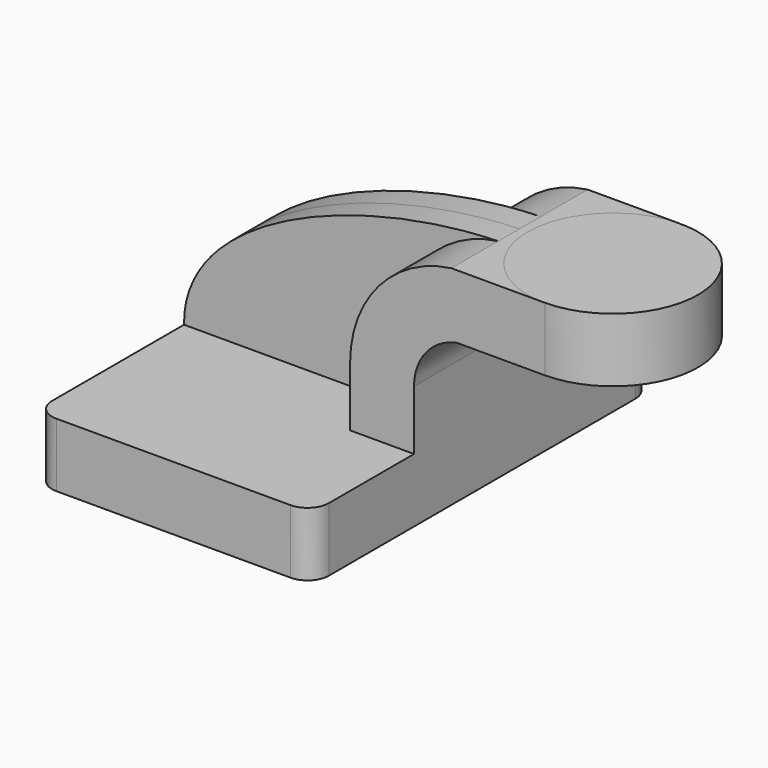
from build123d import *

# Parameters (mm, degrees)
F1_DEPTH = 63.5
F2_DEPTH = 25.4
F3_DEPTH = 7.9375
F4_W     = 25.4
F4_H     = 19.05
F6_R     = 6.35


with BuildPart() as f1:
    # F0 (on Front) → F1 (new body, symmetric)
    with BuildSketch(Plane.XZ):
        Polygon((41.275, -9.525), (41.275, 9.525), (22.225, 9.525), (-41.275, 9.525), (-41.275, -9.525), align=None)
    extrude(amount=F1_DEPTH, both=True)

    # F0 (on Front) → F2 (join, symmetric)
    with BuildSketch(Plane.XZ):
        with BuildLine():
            Line((22.225, 9.525), (41.275, 9.525))
            Line((41.275, 9.525), (41.275, 27.321972))
            ThreePointArc((41.275, 27.321972), (44.851648, 37.360207), (53.96995, 42.8752))
            Line((53.96995, 42.8752), (80.268452, 42.8752))
            Line((80.268452, 42.8752), (80.268452, 61.9252))
            Line((80.268452, 61.9252), (52.420072, 61.9252))
            ThreePointArc((52.420072, 61.9252), (30.835096, 50.284581), (22.225, 27.321972))
            Line((22.225, 27.321972), (22.225, 9.525))
        make_face()
    extrude(amount=F2_DEPTH, both=True)

    # F0 (on Front) → F3 (join, symmetric)
    with BuildSketch(Plane.XZ):
        with BuildLine():
            Line((-41.275, 9.525), (22.225, 9.525))
            Line((22.225, 9.525), (22.225, 27.321972))
            ThreePointArc((22.225, 27.321972), (30.835096, 50.284581), (52.420072, 61.9252))
            add(Edge.make_bspline(
                [(-41.275, 9.525), (-41.826107, 40.29214), (10.028608, 60.780372), (52.420072, 61.9252)],
                knots=[0, 0, 0, 0, 107.352445, 107.352445, 107.352445, 107.352445], degree=3))
        make_face()
    extrude(amount=F3_DEPTH, both=True)

    # F6
    f6_edges = [f1.edges().sort_by_distance(p)[0] for p in [
        (41.275, -63.5, 0),
        (41.275, 63.5, 0),
        (-41.275, 63.5, 0),
        (-41.275, -63.5, 0),
    ]]
    fillet(f6_edges, radius=F6_R)


with BuildPart() as f5:
    # F4 (on face) → F5 (revolve)
    with BuildSketch(Plane.YZ.offset(80.268452)):
        with Locations((-12.7, 52.4002)):
            Rectangle(F4_W, F4_H)
    revolve(axis=Axis((80.268452, 0, 52.4002), (0, 0, -1)))


solid = Compound([f1.part, f5.part])
